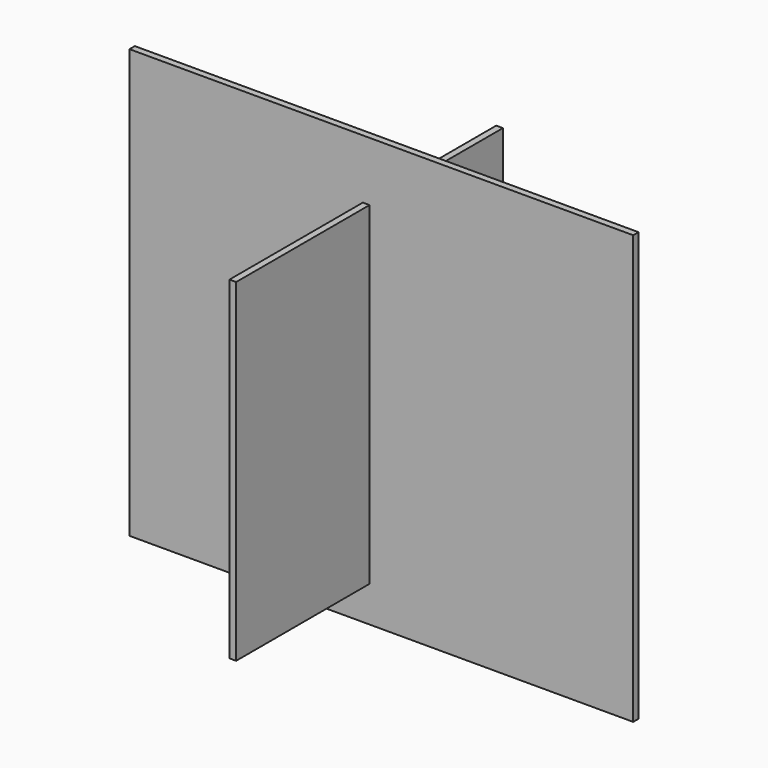
from build123d import *

# Parameters (mm, degrees)
F0_W     = 75.528022
F0_H     = 64.241523
F1_DEPTH = 1
F2_W     = 1
F2_H     = 50
F3_DEPTH = 25


with BuildPart() as f1:
    # F0 (on Front) → F1 (new body)
    with BuildSketch(Plane.XZ):
        with Locations((-5.417621, 16.441694)):
            Rectangle(F0_W, F0_H)
    extrude(amount=F1_DEPTH)

    # F2 (on face) → F3 (join, symmetric)
    with BuildSketch(Plane.XZ.offset(1)):
        with Locations((-7.686447, 14.69165)):
            Rectangle(F2_W, F2_H)
    extrude(amount=F3_DEPTH, both=True)


solid = f1.part
